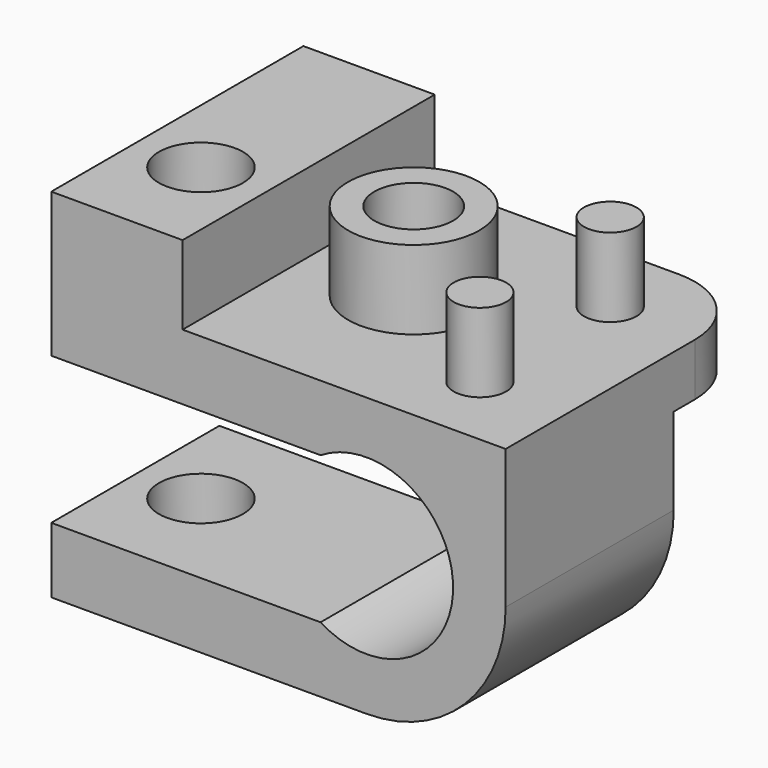
from build123d import *

# Parameters (mm, degrees)
PAD001_DEPTH         = 8
SKETCH004_R          = 1.6
POCKET001_DEPTH      = 5.301
POCKET001_DEPTH_BACK = 3.3011
SKETCH_W             = 17.3
SKETCH_H             = 12
SKETCH_R             = 1.5
SKETCH_R_2           = 1.6
PAD_DEPTH            = 5
SKETCH001_W          = 14
SKETCH001_H          = 12
SKETCH001_R          = 2.5
SKETCH001_R_2        = 1
POCKET_DEPTH         = 3.001
FILLET_R             = 3


with BuildPart() as clipbody:
    # Sketch003 → Pad001 (new body)
    with BuildSketch(Plane.XZ):
        with BuildLine():
            Line((0, -5.3), (-12, -5.3))
            Line((-12, -2.8), (-12, -5.3))
            Line((-1.746425, -2.8), (-12, -2.8))
            ThreePointArc((-1.746425, -2.8), (3.3, 0), (-1.746425, 2.8))
            Line((-1.746425, 2.8), (-12, 2.8))
            Line((-12, 2.8), (-12, 3.3001))
            Line((5.3, 3.3001), (-12, 3.3001))
            Line((5.3, 0), (5.3, 3.3001))
            ThreePointArc((0, -5.3), (3.747666, -3.747666), (5.3, 0))
        make_face()
    extrude(amount=-PAD001_DEPTH)

    # Sketch004 → Pocket001 (cut, two sides)
    with BuildSketch(Plane.XY) as pocket001_sk:
        with Locations((-9.5, 4)):
            Circle(SKETCH004_R)
    extrude(amount=-POCKET001_DEPTH, mode=Mode.SUBTRACT)
    extrude(pocket001_sk.sketch, amount=POCKET001_DEPTH_BACK, mode=Mode.SUBTRACT)


with BuildPart() as part_refined:
    # Sketch → Pad (new body)
    with BuildSketch(Plane.XY):
        with Locations((8.65, 6)):
            Rectangle(SKETCH_W, SKETCH_H)
        with Locations((9, 6)):
            Circle(SKETCH_R, mode=Mode.SUBTRACT)
        with Locations((2.5, 4)):
            Circle(SKETCH_R_2, mode=Mode.SUBTRACT)
    extrude(amount=PAD_DEPTH)

    # Sketch001 (on DatumPlane) → Pocket (cut, through all)
    with BuildSketch(Plane.XY.offset(2)):
        with Locations((12, 6)):
            Rectangle(SKETCH001_W, SKETCH001_H)
        with Locations((9, 6)):
            Circle(SKETCH001_R, mode=Mode.SUBTRACT)
        with Locations((14, 9.1)):
            Circle(SKETCH001_R_2, mode=Mode.SUBTRACT)
        with Locations((14, 2.9)):
            Circle(SKETCH001_R_2, mode=Mode.SUBTRACT)
    extrude(amount=POCKET_DEPTH, mode=Mode.SUBTRACT)

    # Fillet
    fillet_edges = [part_refined.edges().sort_by_distance(p)[0] for p in [
        (17.3, 12, 1),
    ]]
    fillet(fillet_edges, radius=FILLET_R)


with BuildPart() as part_refined_1:
    # Body placement: moved
    add(part_refined.part.moved(Location((-12, 0, 3.3))))

    # Fusion: union ClipBody
    add(clipbody.part)


solid = part_refined_1.part
